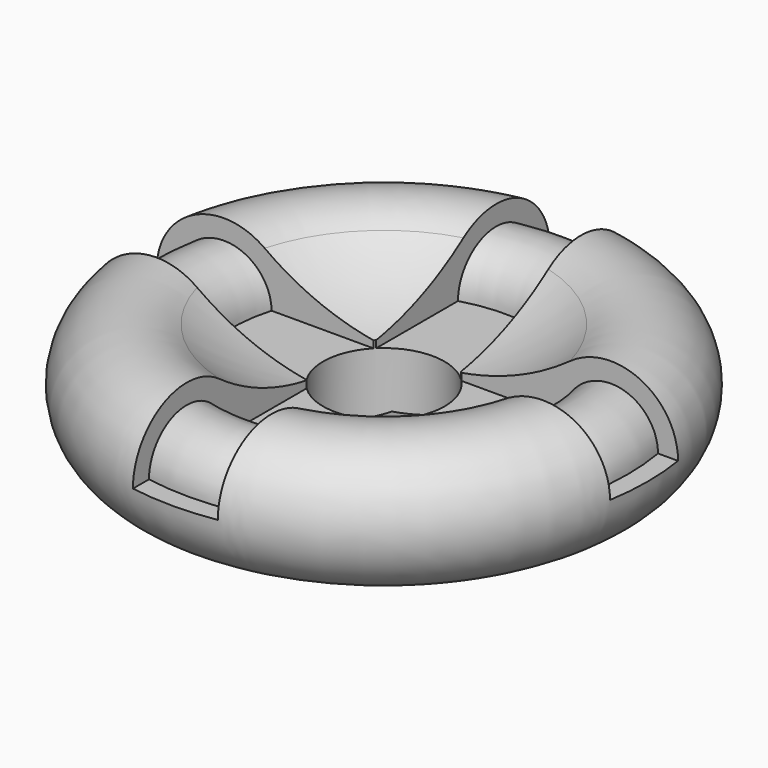
from build123d import *

# Parameters (mm, degrees)
F3_W     = 6.428574
F3_H     = 17.960521
F3_W_2   = 17.799999
F3_H_2   = 6.428573
F3_W_3   = 18.051646
F3_H_3   = 17.891126
F4_DEPTH = 5
F5_R     = 3.5
F7_R     = 4.602203
F8_DEPTH = 25


with BuildPart() as f1:
    # F0 (on Front) → F1 (revolve)
    with BuildSketch(Plane.XZ):
        with BuildLine():
            ThreePointArc((0, 5), (-6.324555, 6.026334), (-12, 9))
            ThreePointArc((-12, 9), (-19.743416, 6.581139), (-15, 0))
            Line((-15, 0), (0, 0))
            Line((0, 0), (0, 5))
        make_face()
    revolve(axis=Axis((0, 0, 2.5), (0, 0, 1)))

    # F3 (on offset) → F4 (cut)
    with BuildSketch(Plane.XY.offset(10)):
        with Locations((0, 12.159849)):
            Rectangle(F3_W, F3_H)
        with Locations((12.114286, -0.034697)):
            Rectangle(F3_W_2, F3_H_2)
        with Locations((-12.24011, -0.034697)):
            Rectangle(F3_W_3, F3_H_2)
        with Locations((0, -12.194547)):
            Rectangle(F3_W, F3_H_3)
    extrude(amount=-F4_DEPTH, mode=Mode.SUBTRACT)

    # F5 (on Front) → F6 (revolve)
    with BuildSketch(Plane.XZ):
        with Locations((-15, 5)):
            Circle(F5_R)
    revolve(axis=Axis((0, 0, 2.5), (0, 0, 1)))

    # F7 (on offset) → F8 (cut)
    with BuildSketch(Plane.XY.offset(10)):
        Circle(F7_R)
    extrude(amount=-F8_DEPTH, mode=Mode.SUBTRACT)


solid = f1.part
